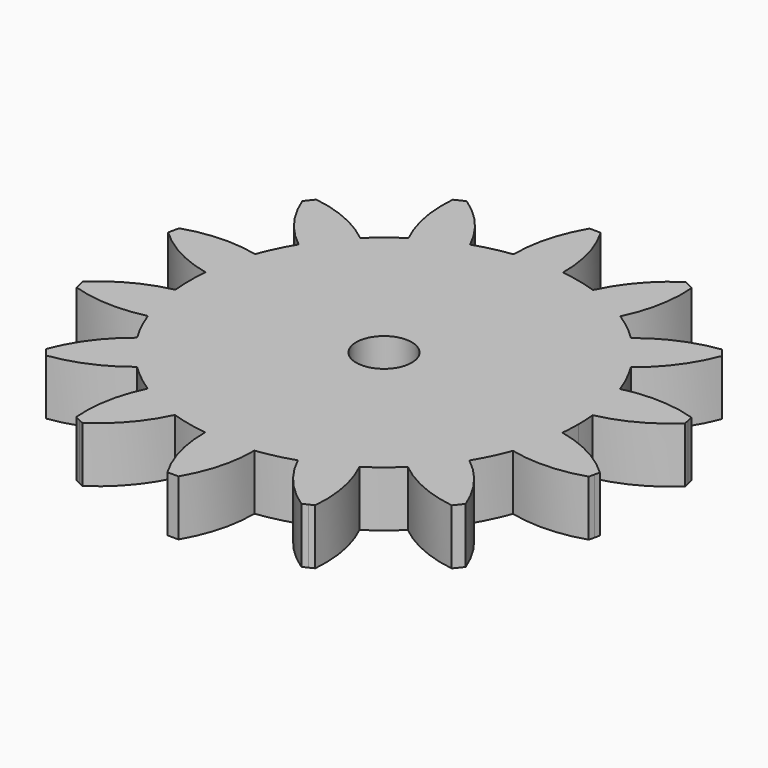
from build123d import *

# Parameters (mm, degrees)
F1_DEPTH = 2
F2_R     = 1
F3_DEPTH = 25


with BuildPart() as f1:
    # F0 (on Top) → F1 (new body)
    with BuildSketch(Plane.XY):
        with BuildLine():
            ThreePointArc((6.966901, -0.679915), (6.99172, -0.34036), (7, 0))
            ThreePointArc((7, 0), (6.99172, 0.34036), (6.966901, 0.679915))
            ThreePointArc((6.966901, 0.679915), (6.824495, 1.557647), (6.571965, 2.410243))
            ThreePointArc((6.571965, 2.410243), (6.306782, 3.037186), (5.981957, 3.635407))
            ThreePointArc((5.981957, 3.635407), (5.47282, 4.364429), (4.875371, 5.023023))
            ThreePointArc((4.875371, 5.023023), (4.364429, 5.47282), (3.812213, 5.870863))
            ThreePointArc((3.812213, 5.870863), (3.037186, 6.306782), (2.213149, 6.640931))
            ThreePointArc((2.213149, 6.640931), (1.557647, 6.824495), (0.887413, 6.943522))
            ThreePointArc((0.887413, 6.943522), (0, 7), (-0.887413, 6.943522))
            ThreePointArc((-0.887413, 6.943522), (-1.557647, 6.824495), (-2.213149, 6.640931))
            ThreePointArc((-2.213149, 6.640931), (-3.037186, 6.306782), (-3.812213, 5.870863))
            ThreePointArc((-3.812213, 5.870863), (-4.364429, 5.47282), (-4.875371, 5.023023))
            ThreePointArc((-4.875371, 5.023023), (-5.47282, 4.364429), (-5.981957, 3.635407))
            ThreePointArc((-5.981957, 3.635407), (-6.306782, 3.037186), (-6.571965, 2.410243))
            ThreePointArc((-6.571965, 2.410243), (-6.824495, 1.557647), (-6.966901, 0.679915))
            ThreePointArc((-6.966901, 0.679915), (-7, 0), (-6.966901, -0.679915))
            ThreePointArc((-6.966901, -0.679915), (-6.824495, -1.557647), (-6.571965, -2.410243))
            ThreePointArc((-6.571965, -2.410243), (-6.306782, -3.037186), (-5.981957, -3.635407))
            ThreePointArc((-5.981957, -3.635407), (-5.47282, -4.364429), (-4.875371, -5.023023))
            ThreePointArc((-4.875371, -5.023023), (-4.364429, -5.47282), (-3.812213, -5.870863))
            ThreePointArc((-3.812213, -5.870863), (-3.037186, -6.306782), (-2.213149, -6.640931))
            ThreePointArc((-2.213149, -6.640931), (-1.557647, -6.824495), (-0.887413, -6.943522))
            ThreePointArc((-0.887413, -6.943522), (0, -7), (0.887413, -6.943522))
            ThreePointArc((0.887413, -6.943522), (1.557647, -6.824495), (2.213149, -6.640931))
            ThreePointArc((2.213149, -6.640931), (3.037186, -6.306782), (3.812213, -5.870863))
            ThreePointArc((3.812213, -5.870863), (4.364429, -5.47282), (4.875371, -5.023023))
            ThreePointArc((4.875371, -5.023023), (5.47282, -4.364429), (5.981957, -3.635407))
            ThreePointArc((5.981957, -3.635407), (6.306782, -3.037186), (6.571965, -2.410243))
            ThreePointArc((6.571965, -2.410243), (6.824495, -1.557647), (6.966901, -0.679915))
        make_face()
        with BuildLine():
            ThreePointArc((6.571965, 2.410243), (6.824495, 1.557647), (6.966901, 0.679915))
            ThreePointArc((6.966901, 0.679915), (8.222094, 1.13804), (9.306319, 1.918963))
            Line((9.306319, 1.918963), (9.261815, 2.113949))
            Line((9.261815, 2.113949), (9.217311, 2.308934))
            ThreePointArc((9.217311, 2.308934), (7.901628, 2.542094), (6.571965, 2.410243))
        make_face()
        with BuildLine():
            ThreePointArc((9.306319, -1.918963), (8.222094, -1.13804), (6.966901, -0.679915))
            ThreePointArc((6.966901, -0.679915), (6.824495, -1.557647), (6.571965, -2.410243))
            ThreePointArc((6.571965, -2.410243), (7.901628, -2.542094), (9.217311, -2.308934))
            Line((9.217311, -2.308934), (9.261815, -2.113949))
            Line((9.261815, -2.113949), (9.306319, -1.918963))
        make_face()
        with BuildLine():
            ThreePointArc((4.875371, 5.023023), (5.47282, 4.364429), (5.981957, 3.635407))
            ThreePointArc((5.981957, 3.635407), (6.914074, 4.592771), (7.552097, 5.766787))
            Line((7.552097, 5.766787), (7.427399, 5.923153))
            Line((7.427399, 5.923153), (7.302701, 6.079519))
            ThreePointArc((7.302701, 6.079519), (6.016147, 5.718736), (4.875371, 5.023023))
        make_face()
        with BuildLine():
            ThreePointArc((7.552097, -5.766787), (6.914074, -4.592771), (5.981957, -3.635407))
            ThreePointArc((5.981957, -3.635407), (5.47282, -4.364429), (4.875371, -5.023023))
            ThreePointArc((4.875371, -5.023023), (6.016147, -5.718736), (7.302701, -6.079519))
            Line((7.302701, -6.079519), (7.427399, -5.923153))
            Line((7.427399, -5.923153), (7.552097, -5.766787))
        make_face()
        with BuildLine():
            ThreePointArc((2.213149, 6.640931), (3.037186, 6.306782), (3.812213, 5.870863))
            ThreePointArc((3.812213, 5.870863), (4.236636, 7.137848), (4.302089, 8.472427))
            Line((4.302089, 8.472427), (4.121896, 8.559204))
            Line((4.121896, 8.559204), (3.941702, 8.645981))
            ThreePointArc((3.941702, 8.645981), (2.939095, 7.762711), (2.213149, 6.640931))
        make_face()
        with BuildLine():
            ThreePointArc((4.302089, -8.472427), (4.236636, -7.137848), (3.812213, -5.870863))
            ThreePointArc((3.812213, -5.870863), (3.037186, -6.306782), (2.213149, -6.640931))
            ThreePointArc((2.213149, -6.640931), (2.939095, -7.762711), (3.941702, -8.645981))
            Line((3.941702, -8.645981), (4.121896, -8.559204))
            Line((4.121896, -8.559204), (4.302089, -8.472427))
        make_face()
        with BuildLine():
            ThreePointArc((-0.887413, 6.943522), (0, 7), (0.887413, 6.943522))
            ThreePointArc((0.887413, 6.943522), (0.720081, 8.269186), (0.2, 9.5))
            Line((0.2, 9.5), (0, 9.5))
            Line((0, 9.5), (-0.2, 9.5))
            ThreePointArc((-0.2, 9.5), (-0.720081, 8.269186), (-0.887413, 6.943522))
        make_face()
        with BuildLine():
            ThreePointArc((0.2, -9.5), (0.720081, -8.269186), (0.887413, -6.943522))
            ThreePointArc((0.887413, -6.943522), (0, -7), (-0.887413, -6.943522))
            ThreePointArc((-0.887413, -6.943522), (-0.720081, -8.269186), (-0.2, -9.5))
            Line((-0.2, -9.5), (0, -9.5))
            Line((0, -9.5), (0.2, -9.5))
        make_face()
        with BuildLine():
            ThreePointArc((-3.812213, 5.870863), (-3.037186, 6.306782), (-2.213149, 6.640931))
            ThreePointArc((-2.213149, 6.640931), (-2.939095, 7.762711), (-3.941702, 8.645981))
            Line((-3.941702, 8.645981), (-4.121896, 8.559204))
            Line((-4.121896, 8.559204), (-4.302089, 8.472427))
            ThreePointArc((-4.302089, 8.472427), (-4.236636, 7.137848), (-3.812213, 5.870863))
        make_face()
        with BuildLine():
            ThreePointArc((-3.941702, -8.645981), (-2.939095, -7.762711), (-2.213149, -6.640931))
            ThreePointArc((-2.213149, -6.640931), (-3.037186, -6.306782), (-3.812213, -5.870863))
            ThreePointArc((-3.812213, -5.870863), (-4.236636, -7.137848), (-4.302089, -8.472427))
            Line((-4.302089, -8.472427), (-4.121896, -8.559204))
            Line((-4.121896, -8.559204), (-3.941702, -8.645981))
        make_face()
        with BuildLine():
            ThreePointArc((-5.981957, 3.635407), (-5.47282, 4.364429), (-4.875371, 5.023023))
            ThreePointArc((-4.875371, 5.023023), (-6.016147, 5.718736), (-7.302701, 6.079519))
            Line((-7.302701, 6.079519), (-7.427399, 5.923153))
            Line((-7.427399, 5.923153), (-7.552097, 5.766787))
            ThreePointArc((-7.552097, 5.766787), (-6.914074, 4.592771), (-5.981957, 3.635407))
        make_face()
        with BuildLine():
            ThreePointArc((-7.302701, -6.079519), (-6.016147, -5.718736), (-4.875371, -5.023023))
            ThreePointArc((-4.875371, -5.023023), (-5.47282, -4.364429), (-5.981957, -3.635407))
            ThreePointArc((-5.981957, -3.635407), (-6.914074, -4.592771), (-7.552097, -5.766787))
            Line((-7.552097, -5.766787), (-7.427399, -5.923153))
            Line((-7.427399, -5.923153), (-7.302701, -6.079519))
        make_face()
        with BuildLine():
            ThreePointArc((-6.966901, 0.679915), (-6.824495, 1.557647), (-6.571965, 2.410243))
            ThreePointArc((-6.571965, 2.410243), (-7.901628, 2.542094), (-9.217311, 2.308934))
            Line((-9.217311, 2.308934), (-9.261815, 2.113949))
            Line((-9.261815, 2.113949), (-9.306319, 1.918963))
            ThreePointArc((-9.306319, 1.918963), (-8.222094, 1.13804), (-6.966901, 0.679915))
        make_face()
        with BuildLine():
            ThreePointArc((-9.217311, -2.308934), (-7.901628, -2.542094), (-6.571965, -2.410243))
            ThreePointArc((-6.571965, -2.410243), (-6.824495, -1.557647), (-6.966901, -0.679915))
            ThreePointArc((-6.966901, -0.679915), (-8.222094, -1.13804), (-9.306319, -1.918963))
            Line((-9.306319, -1.918963), (-9.261815, -2.113949))
            Line((-9.261815, -2.113949), (-9.217311, -2.308934))
        make_face()
    extrude(amount=F1_DEPTH)

    # F2 (on face) → F3 (cut)
    with BuildSketch(Plane.XY.offset(2)):
        Circle(F2_R)
    extrude(amount=-F3_DEPTH, mode=Mode.SUBTRACT)


solid = f1.part
